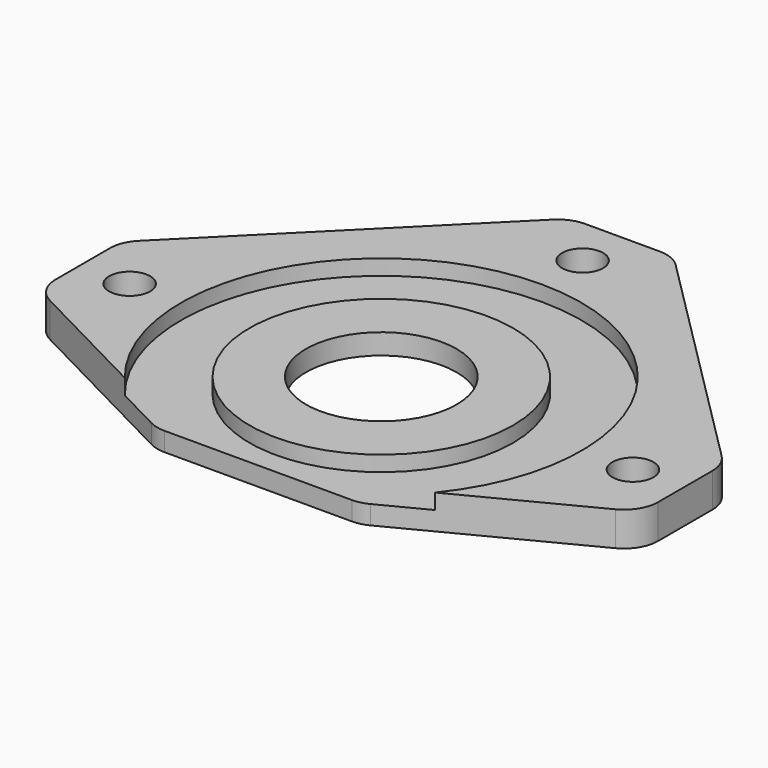
from build123d import *

# Parameters (mm, degrees)
F0_R     = 6
F1_DEPTH = 10
F2_R     = 35.5
F3_DEPTH = 4
F4_R     = 58.5
F4_R_2   = 38.5
F5_DEPTH = 4.5
F6_R     = 22
F7_DEPTH = 10.001


with BuildPart() as f1:
    # F0 (on Top) → F1 (new body)
    with BuildSketch(Plane.XY):
        with BuildLine():
            ThreePointArc((-85.071068, 17.928932), (-87.238795, 14.684699), (-88, 10.857864))
            Line((-88, 10.857864), (-88, -8.905047))
            ThreePointArc((-88, -8.905047), (-86.538952, -14.109498), (-82.582739, -17.793158))
            Line((-82.582739, -17.793158), (-31.972211, -43.88811))
            ThreePointArc((-31.972211, -43.88811), (-29.747321, -44.718053), (-27.389472, -45))
            Line((-27.389472, -45), (0, -45))
            Line((0, -45), (27.389472, -45))
            ThreePointArc((27.389472, -45), (29.747321, -44.718053), (31.972211, -43.88811))
            Line((31.972211, -43.88811), (82.582739, -17.793158))
            ThreePointArc((82.582739, -17.793158), (86.538952, -14.109498), (88, -8.905047))
            Line((88, -8.905047), (88, 10.857864))
            ThreePointArc((88, 10.857864), (87.238795, 14.684699), (85.071068, 17.928932))
            Line((85.071068, 17.928932), (17.928932, 85.071068))
            ThreePointArc((17.928932, 85.071068), (14.684699, 87.238795), (10.857864, 88))
            Line((10.857864, 88), (-10.857864, 88))
            ThreePointArc((-10.857864, 88), (-14.684699, 87.238795), (-17.928932, 85.071068))
            Line((-17.928932, 85.071068), (-85.071068, 17.928932))
        make_face()
        with Locations((-73.5, 0)):
            Circle(F0_R, mode=Mode.SUBTRACT)
        with Locations((73.5, 0)):
            Circle(F0_R, mode=Mode.SUBTRACT)
        with Locations((0, 73.5)):
            Circle(F0_R, mode=Mode.SUBTRACT)
    extrude(amount=F1_DEPTH)

    # F2 (on face) → F3 (cut)
    with BuildSketch(Plane(origin=(0, 0, 0), x_dir=(1, 0, 0), z_dir=(0, 0, -1))):
        Circle(F2_R)
    extrude(amount=-F3_DEPTH, mode=Mode.SUBTRACT)

    # F4 (on face) → F5 (cut)
    with BuildSketch(Plane.XY.offset(10)):
        Circle(F4_R)
        Circle(F4_R_2, mode=Mode.SUBTRACT)
    extrude(amount=-F5_DEPTH, mode=Mode.SUBTRACT)

    # F6 (on face) → F7 (cut, through all)
    with BuildSketch(Plane.XY.offset(10)):
        Circle(F6_R)
    extrude(amount=-F7_DEPTH, mode=Mode.SUBTRACT)


solid = f1.part
